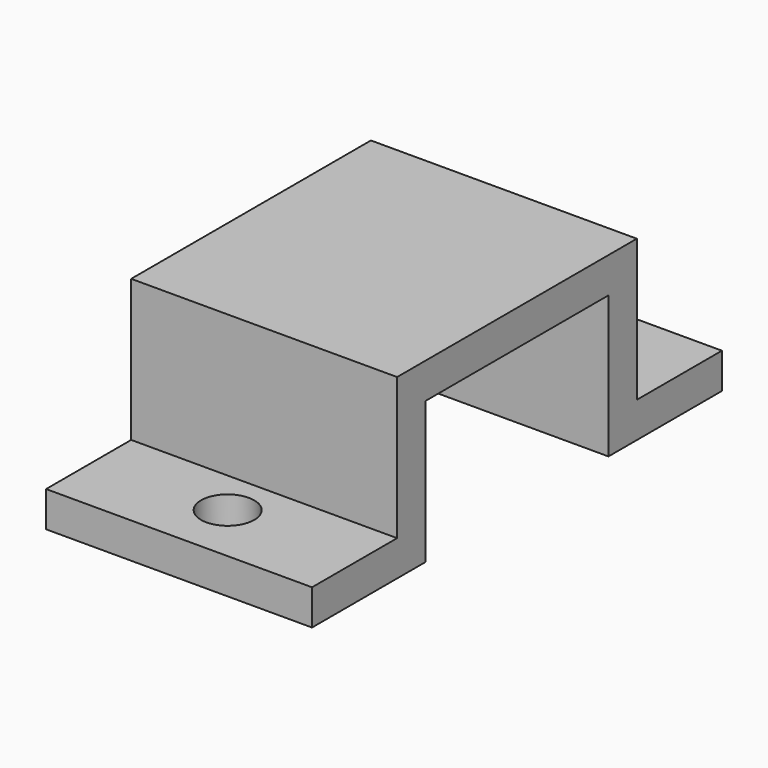
from build123d import *

# Parameters (mm, degrees)
SKETCH060_R      = 1.5
EXTRUDE065_DEPTH = 5
EXTRUDE064_DEPTH = 7.5


with BuildPart() as screw_gaps:
    # Sketch060 (on Face8 of Extrude064) → Extrude065 (new body, symmetric)
    with BuildSketch(Plane.XY.offset(39.18)):
        with Locations((0, -40.207718)):
            Circle(SKETCH060_R)
        with Locations((0, -62.282784)):
            Circle(SKETCH060_R)
    extrude(amount=EXTRUDE065_DEPTH, both=True)


with BuildPart() as servo_fixer:
    # Sketch059 → Extrude064 (new body, symmetric)
    with BuildSketch(Plane.YZ):
        Polygon((-65.71, 39.18), (-65.71, 37.18), (-57.71, 37.18), (-57.71, 45.18), (-44.81, 45.18), (-44.81, 37.18), (-36.81, 37.18), (-36.81, 39.18), (-42.81, 39.18), (-42.81, 47.18), (-59.71, 47.18), (-59.71, 39.18), align=None)
    extrude(amount=EXTRUDE064_DEPTH, both=True)

    # Cut036: cut Screw Gaps
    add(screw_gaps.part, mode=Mode.SUBTRACT)


with BuildPart() as servo_fixer_1:
    # Cut036 placement: moved
    add(servo_fixer.part.moved(Location((2.5, 0, 0))))


solid = servo_fixer_1.part
